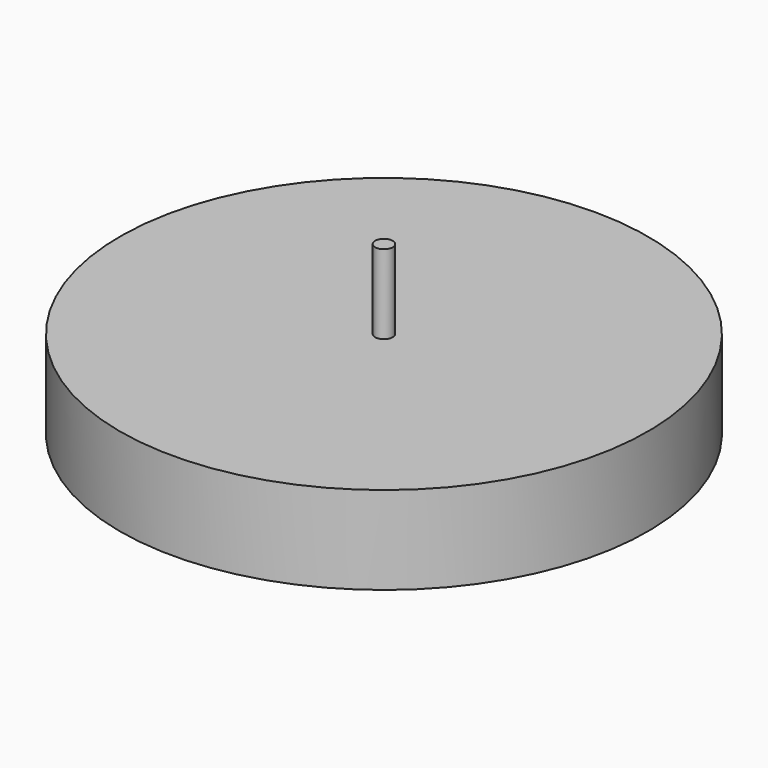
from build123d import *


with BuildPart() as part:
    # Sketch → Revolution (revolve)
    with BuildSketch(Plane.YZ):
        Polygon((150, 0), (150, 25), (5, 25), (5, 70), (0, 70), (0, 0), align=None)
    revolution = revolve(axis=Axis((0, 0, 0), (0, 0, 1)))

    # Mirrored: Revolution across Sketch H_Axis
    add(revolution.mirror(Plane.XY))


solid = part.part
